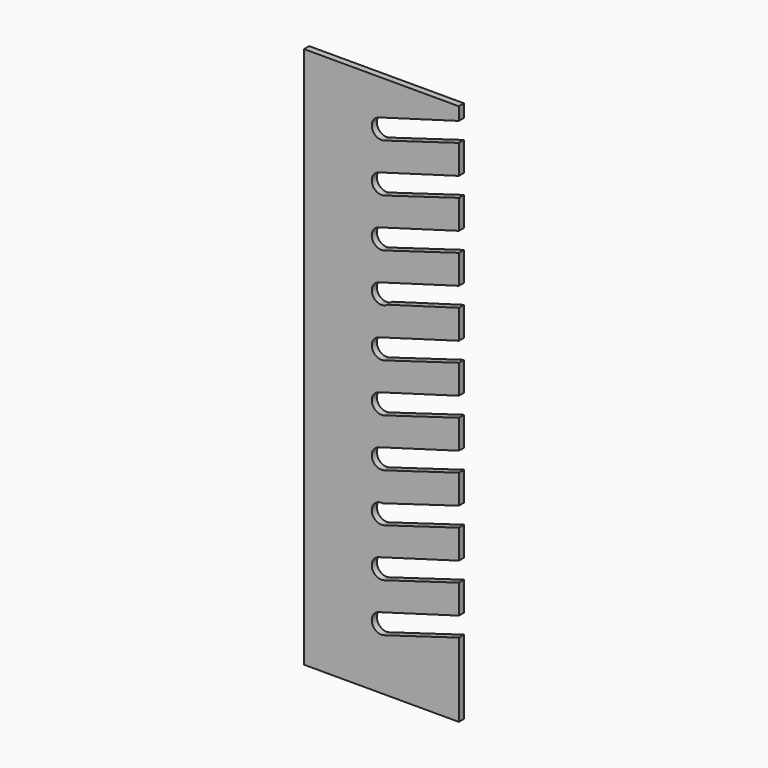
from build123d import *

# Parameters (mm, degrees)
F1_DEPTH = 12.7


with BuildPart() as f1:
    # F0 (on Front) → F1 (new body)
    with BuildSketch(Plane.XZ):
        with BuildLine():
            Line((152.4, 508), (152.4, 533.4))
            Line((152.4, 533.4), (-152.4, 533.4))
            Line((-152.4, 533.4), (-152.4, -533.4))
            Line((-152.4, -533.4), (152.4, -533.4))
            Line((152.4, -533.4), (152.4, -387.35))
            Line((152.4, -387.35), (5.424796, -431.011273))
            ThreePointArc((5.424796, -431.011273), (-18.287138, -418.086955), (-5.248992, -394.43742))
            Line((-5.248992, -394.43742), (152.4, -349.25))
            Line((152.4, -349.25), (152.4, -292.1))
            Line((152.4, -292.1), (5.424796, -335.761273))
            ThreePointArc((5.424796, -335.761273), (-18.287138, -322.836955), (-5.248992, -299.18742))
            Line((-5.248992, -299.18742), (152.4, -254))
            Line((152.4, -254), (152.4, -196.85))
            Line((152.4, -196.85), (5.424796, -240.511273))
            ThreePointArc((5.424796, -240.511273), (-16.775419, -231.277061), (-12.251628, -207.66233))
            ThreePointArc((-12.251628, -207.66233), (-5.424796, -203.988727), (2.300448, -203.339409))
            Line((2.300448, -203.339409), (152.4, -158.75))
            Line((152.4, -158.75), (152.4, -101.6))
            Line((152.4, -101.6), (5.424796, -145.261273))
            ThreePointArc((5.424796, -145.261273), (-18.287138, -132.336955), (-5.248992, -108.68742))
            Line((-5.248992, -108.68742), (152.4, -63.5))
            Line((152.4, -63.5), (152.4, -6.35))
            Line((152.4, -6.35), (5.424796, -50.011273))
            ThreePointArc((5.424796, -50.011273), (-18.287138, -37.086955), (-5.248992, -13.43742))
            Line((-5.248992, -13.43742), (152.4, 31.75))
            Line((152.4, 31.75), (152.4, 88.9))
            Line((152.4, 88.9), (5.424796, 45.238727))
            ThreePointArc((5.424796, 45.238727), (-18.287138, 58.163045), (-5.248992, 81.81258))
            Line((-5.248992, 81.81258), (152.4, 127))
            Line((152.4, 127), (152.4, 184.15))
            Line((152.4, 184.15), (11.907693, 143.880254))
            ThreePointArc((11.907693, 143.880254), (5.248992, 140.43742), (-2.222457, 139.830085))
            ThreePointArc((-2.222457, 139.830085), (-18.987372, 157.206565), (-5.248992, 177.06258))
            Line((-5.248992, 177.06258), (152.4, 222.25))
            Line((152.4, 222.25), (152.4, 279.4))
            Line((152.4, 279.4), (5.424796, 235.738727))
            ThreePointArc((5.424796, 235.738727), (-18.287138, 248.663045), (-5.248992, 272.31258))
            Line((-5.248992, 272.31258), (152.4, 317.5))
            Line((152.4, 317.5), (152.4, 374.65))
            Line((152.4, 374.65), (5.424796, 330.988727))
            ThreePointArc((5.424796, 330.988727), (-18.287138, 343.913045), (-5.248992, 367.56258))
            Line((-5.248992, 367.56258), (152.4, 412.75))
            Line((152.4, 412.75), (152.4, 469.9))
            Line((152.4, 469.9), (5.424796, 426.238727))
            ThreePointArc((5.424796, 426.238727), (-18.287138, 439.163045), (-5.248992, 462.81258))
            Line((-5.248992, 462.81258), (152.4, 508))
        make_face()
    extrude(amount=F1_DEPTH)


solid = f1.part
